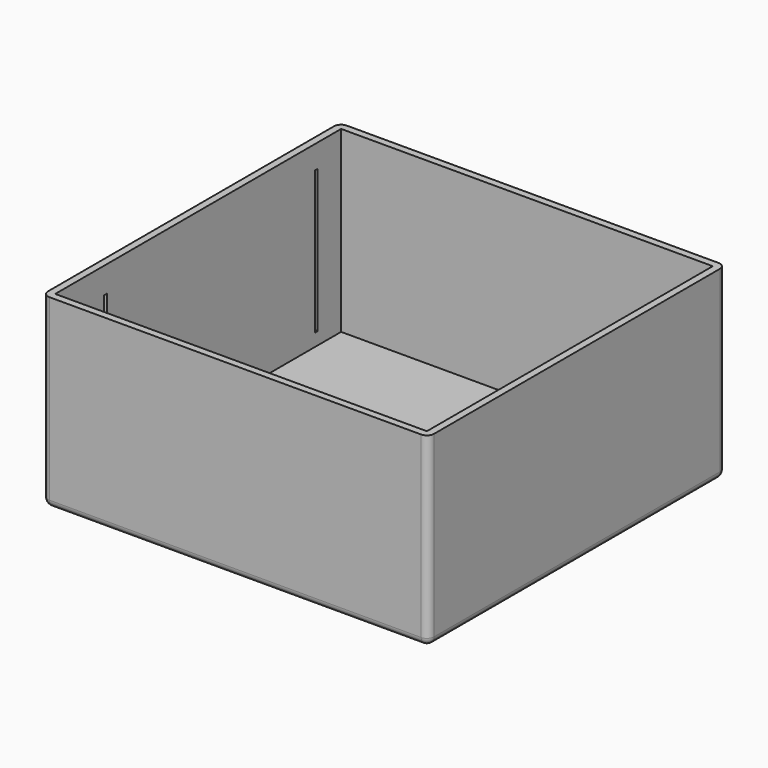
from build123d import *

# Parameters (mm, degrees)
EXTRUDE_DEPTH  = 5
BOX019_W       = 530
BOX019_H       = 5
BOX019_DEPTH   = 200
BOX020_W       = 530
BOX020_H       = 5
BOX020_DEPTH   = 200
BOX021_W       = 520
BOX021_H       = 500
BOX021_DEPTH   = 250
THICKNESS001_T = 10


with BuildPart() as extrude_body:
    # Sketch (on Face43 of Cut004) → Extrude (new body)
    with BuildSketch(Plane(origin=(0, 0, -63.6), x_dir=(1, 0, 0), z_dir=(0, 0, -1))):
        with BuildLine():
            Line((20, -235), (500, -235))
            ThreePointArc((500, -265), (515, -250), (500, -235))
            Line((20, -265), (500, -265))
            ThreePointArc((20, -235), (5, -250), (20, -265))
        make_face()
    extrude(amount=-EXTRUDE_DEPTH)


with BuildPart() as supportrail003:
    # Box019 → Box019 (new body)
    with BuildSketch(Plane(origin=(-5.7935, 85.5, 13.6), x_dir=(1, 0, 0), z_dir=(0, 0, 1))):
        with Locations((265, 2.5)):
            Rectangle(BOX019_W, BOX019_H)
    extrude(amount=BOX019_DEPTH)


with BuildPart() as supportrail004:
    # Box020 → Box020 (new body)
    with BuildSketch(Plane(origin=(-5.7935, 454, 17.5), x_dir=(1, 0, 0), z_dir=(0, 0, 1))):
        with Locations((265, 2.5)):
            Rectangle(BOX020_W, BOX020_H)
    extrude(amount=BOX020_DEPTH)


with BuildPart() as box:
    # Box021 → Box021 (new body)
    with BuildSketch(Plane.XY):
        with Locations((260, 250)):
            Rectangle(BOX021_W, BOX021_H)
    extrude(amount=BOX021_DEPTH)

    # Thickness001
    thickness001_openings = [box.faces().sort_by_distance(p)[0] for p in [
        (260, 250, 250),
    ]]
    offset(amount=THICKNESS001_T, openings=thickness001_openings)

    # Cut003: cut SupportRail004
    add(supportrail004.part, mode=Mode.SUBTRACT)

    # Cut004: cut SupportRail003
    add(supportrail003.part, mode=Mode.SUBTRACT)


with BuildPart() as box_1:
    # Cut004 placement: moved
    add(box.part.moved(Location((0, 0, -53.6))))

    # Cut005: cut Extrude body
    add(extrude_body.part, mode=Mode.SUBTRACT)


solid = box_1.part
